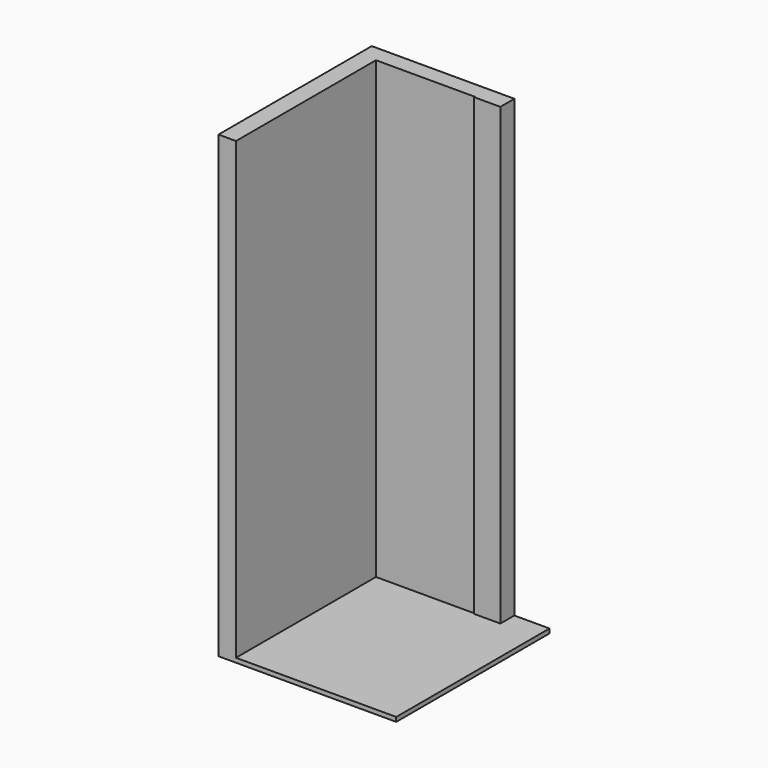
from build123d import *

# Parameters (mm, degrees)
F1_DEPTH = 2600
F2_W     = 1015.840983
F2_H     = 1095
F3_DEPTH = 25


with BuildPart() as f1:
    # F0 (on Top) → F1 (new body)
    with BuildSketch(Plane.XY):
        Polygon((-100, 0), (0, 0), (0, 1000), (565, 1000), (565, 995), (715, 995), (715, 1095), (-100, 1095), align=None)
    extrude(amount=F1_DEPTH)

    # F2 (on face) → F3 (join)
    with BuildSketch(Plane(origin=(0, 0, 0), x_dir=(1, 0, 0), z_dir=(0, 0, -1))):
        with Locations((407.920491, -547.5)):
            Rectangle(F2_W, F2_H)
    extrude(amount=F3_DEPTH)


solid = f1.part
